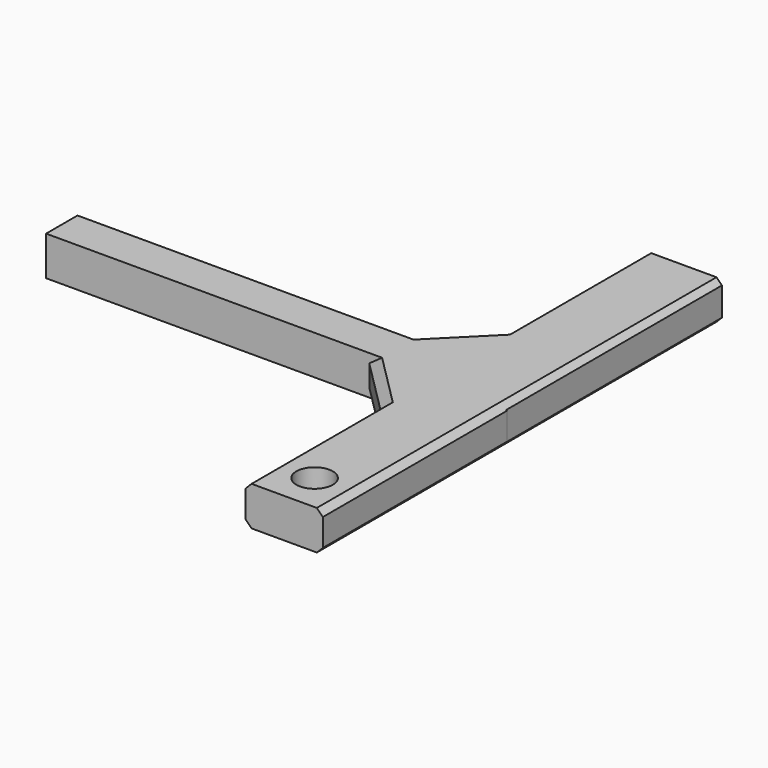
from build123d import *

# Parameters (mm, degrees)
F0_R     = 3.020218
F1_DEPTH = 6.5
F2_SIZE  = 1.5
F3_SIZE  = 1


with BuildPart() as f1:
    # F0 (on Top) → F1 (new body)
    with BuildSketch(Plane.XY):
        Polygon((38.1, -3.25), (38.1, 3.25), (25.4, 3.25), (15.4, 3.25), (-38.1, 3.25), (-38.1, -3.25), (15.4, -3.25), (25.4, -3.25), align=None)
        Polygon((25.4, 3.25), (38.1, 3.25), (38.1, 41.35), (25.4, 41.35), (25.4, 13.25), align=None)
        Polygon((15.4, 3.25), (25.4, 3.25), (25.4, 13.25), align=None)
        Polygon((38.201772, -3.25), (38.1, -3.25), (25.4, -3.25), (25.4, -13.25), (25.4, -41.35), (38.201772, -41.35), align=None)
        with Locations((31.75, -35)):
            Circle(F0_R, mode=Mode.SUBTRACT)
        Polygon((25.4, -13.25), (25.4, -3.25), (15.4, -3.25), align=None)
    extrude(amount=F1_DEPTH)

    # F2
    f2_edges = [f1.edges().sort_by_distance(p)[0] for p in [
        (20.4, -8.25, 6.5),
        (20.4, 8.25, 6.5),
        (20.4, 8.25, 0),
        (20.4, -8.25, 0),
    ]]
    chamfer(f2_edges, length=F2_SIZE)

    # F3
    f3_edges = [f1.edges().sort_by_distance(p)[0] for p in [
        (25.4, -27.3, 6.5),
        (25.4, -27.3, 0),
        (25.4, 27.3, 6.5),
        (25.4, 27.3, 0),
        (38.201772, -22.3, 6.5),
        (38.201772, -22.3, 0),
    ]]
    chamfer(f3_edges, length=F3_SIZE)


solid = f1.part
